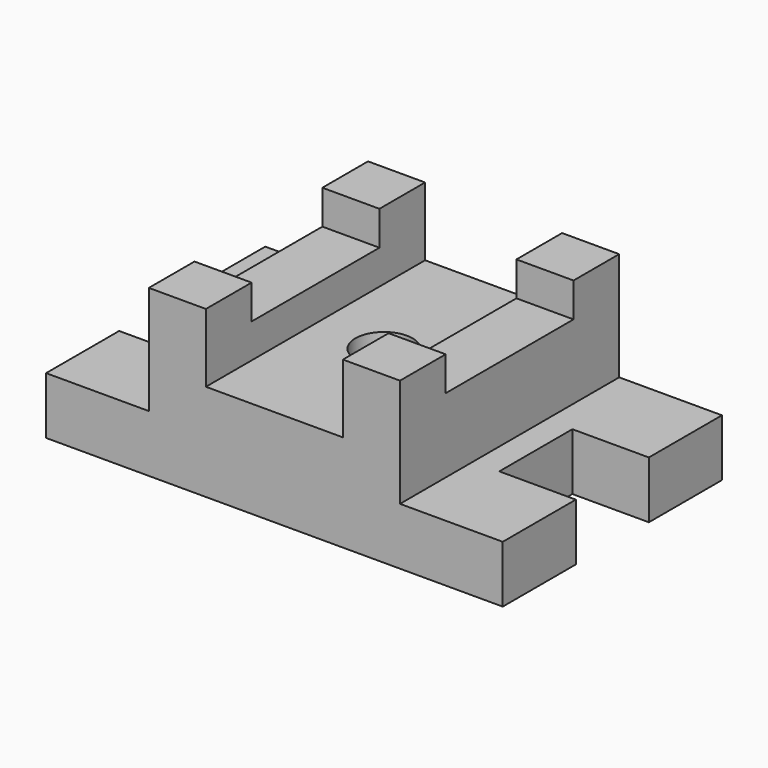
from build123d import *

# Parameters (mm, degrees)
F1_DEPTH = 152.4
F2_W     = 50.8
F2_H     = 31.75
F3_DEPTH = 42.545
F4_W     = 31.75
F4_H     = 88.9
F5_DEPTH = 19.05
F7_R     = 15.875
F8_DEPTH = 55.88


with BuildPart() as f1:
    # F0 (on Front) → F1 (new body)
    with BuildSketch(Plane.XZ):
        Polygon((-63.5, 0), (0, 0), (63.5, 0), (63.5, 31.75), (6.35, 31.75), (6.35, 92.075), (-25.4, 92.075), (-25.4, 53.975), (-63.5, 53.975), align=None)
        Polygon((-63.5, 0), (0, 0), (63.5, 0), (63.5, 31.75), (6.35, 31.75), (6.35, 92.075), (-25.4, 92.075), (-25.4, 53.975), (-63.5, 53.975), align=None)
    extrude(amount=F1_DEPTH)

    # F2 (on face) → F3 (cut)
    with BuildSketch(Plane.YZ.offset(63.5)):
        with Locations((-76.2, 15.875)):
            Rectangle(F2_W, F2_H)
    extrude(amount=-F3_DEPTH, mode=Mode.SUBTRACT)

    # F4 (on face) → F5 (cut)
    with BuildSketch(Plane.XY.offset(92.075)):
        with Locations((-9.525, -76.2)):
            Rectangle(F4_W, F4_H)
    extrude(amount=-F5_DEPTH, mode=Mode.SUBTRACT)

    # F6: F1 across face


with BuildPart() as f1_1:
    add(f1.part)
    add(f1.part.mirror(Plane(origin=(-63.5, -76.2, 26.9875), x_dir=(0, -1, 0), z_dir=(-1, 0, 0))))

    # F7 (on face) → F8 (cut)
    with BuildSketch(Plane.XY.offset(53.975)):
        with Locations((-63.5, -76.2)):
            Circle(F7_R)
    extrude(amount=-F8_DEPTH, mode=Mode.SUBTRACT)


solid = f1_1.part
